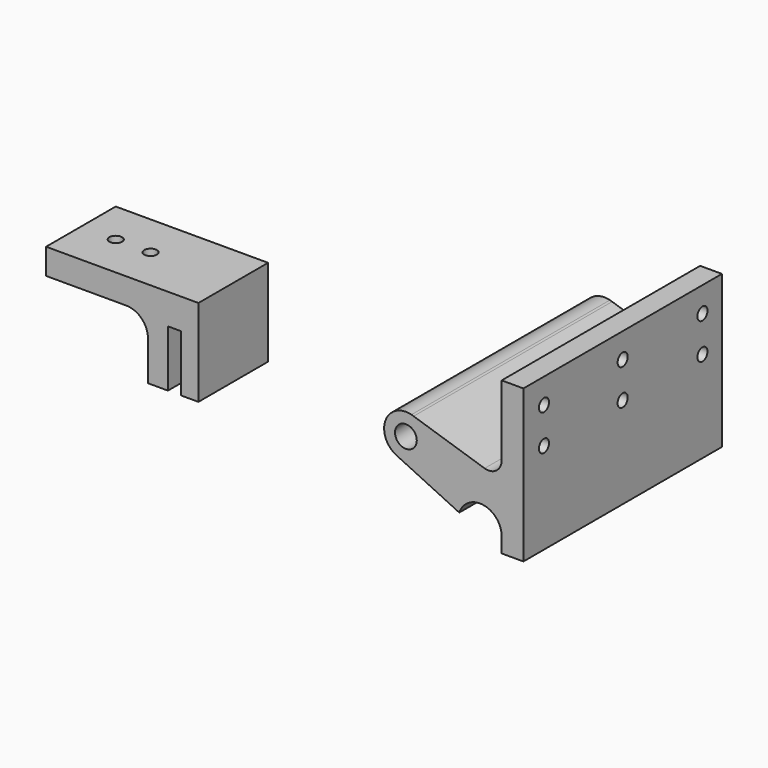
from build123d import *

# Parameters (mm, degrees)
F0_R      = 1.45
F1_DEPTH  = 20
F2_W      = 5
F2_H      = 57
F3_DEPTH  = 35
F4_R      = 1.45
F5_DEPTH  = 25
F6_W      = 3
F6_H      = 13
F6_W_2    = 23.4017784894
F6_H_2    = 14.0902716666
F7_DEPTH  = 25
F8_R      = 5
F9_R      = 2.5
F10_DEPTH = 57
F11_R     = 3


with BuildPart() as f1:
    # F0 (on Top) → F1 (new body)
    with BuildSketch(Plane.XY):
        Polygon((-55, -25), (-55, -45), (-20, -45), (-20, -25), (-30, -25), align=None)
        with Locations((-47, -35)):
            Circle(F0_R, mode=Mode.SUBTRACT)
        with Locations((-39, -35)):
            Circle(F0_R, mode=Mode.SUBTRACT)
    extrude(amount=F1_DEPTH)

    # F6 (on face) → F7 (cut)
    with BuildSketch(Plane.XZ.offset(45)):
        with Locations((-25.5, 6.5)):
            Rectangle(F6_W, F6_H)
        with Locations((-43.2991107553, 7.0451358333)):
            Rectangle(F6_W_2, F6_H_2)
    extrude(amount=-F7_DEPTH, mode=Mode.SUBTRACT)

    # F8
    f8_edges = [f1.edges().sort_by_distance(p)[0] for p in [
        (-31.598222, -35, 14.090272),
    ]]
    fillet(f8_edges, radius=F8_R)


with BuildPart() as f3:
    # F2 (on Top) → F3 (new body)
    with BuildSketch(Plane.XY):
        with Locations((61.7580251396, -28.5)):
            Rectangle(F2_W, F2_H)
    extrude(amount=F3_DEPTH)

    # F4 (on face) → F5 (cut)
    with BuildSketch(Plane.YZ.offset(64.2580251396)):
        with Locations((-28.5, 21)):
            Circle(F4_R)
        with Locations((-28.5, 29.25)):
            Circle(F4_R)
        with Locations((-5.6, 29.25)):
            Circle(F4_R)
        with Locations((-5.6, 21)):
            Circle(F4_R)
        with Locations((-51.1, 29.25)):
            Circle(F4_R)
        with Locations((-51.1, 21)):
            Circle(F4_R)
    extrude(amount=-F5_DEPTH, mode=Mode.SUBTRACT)

    # F9 (on face) → F10 (join)
    with BuildSketch(Plane.XZ.offset(57)):
        with BuildLine():
            ThreePointArc((49.5200200917, 5.0953693625), (51.3413838746, 7.5592704233), (54.2580251396, 8.49808787))
            ThreePointArc((54.2580251396, 8.49808787), (57.7935590368, 7.0336217846), (59.2580251396, 3.4980878947))
            Line((59.2580251396, 3.4980878947), (59.2580251396, 14.680092223))
            Line((59.2580251396, 14.680092223), (39.0309278948, 21.1732152287))
            Line((39.0309278948, 21.1732152287), (38.5375044289, 21.3316096448))
            ThreePointArc((38.5375044289, 21.3316096448), (32.5651577951, 18.2234852408), (35.1017983979, 11.986914382))
            Line((35.1017983979, 11.986914382), (49.5200200917, 5.0953693625))
        make_face()
        with Locations((37.2580251396, 16.49808787)):
            Circle(F9_R, mode=Mode.SUBTRACT)
    extrude(amount=-F10_DEPTH)

    # F11
    f11_edges = [f3.edges().sort_by_distance(p)[0] for p in [
        (59.258025, -28.5, 14.680092),
    ]]
    fillet(f11_edges, radius=F11_R)


solid = Compound([f1.part, f3.part])
